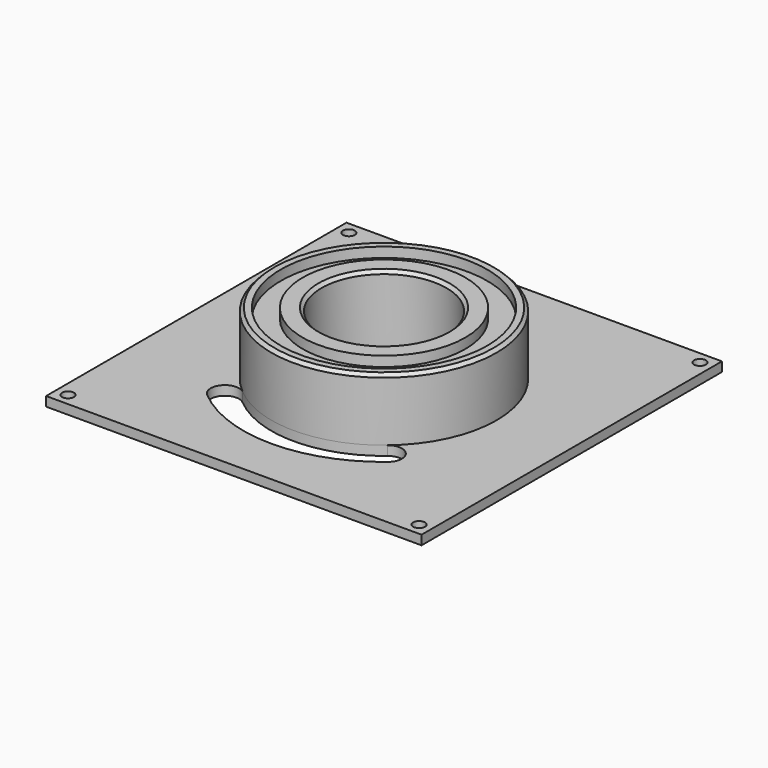
from build123d import *

# Parameters (mm, degrees)
SKETCH054_W             = 120
SKETCH054_H             = 120
PAD015_DEPTH            = 3
SKETCH065_R             = 1.9
POCKET034_DEPTH         = 3.001
SKETCH064_R             = 20
POCKET036_DEPTH         = 3.001
SKETCH058_R             = 36
PAD013_DEPTH            = 20
SKETCH055_R             = 20
POCKET035_DEPTH         = 20.001
SKETCH056_R             = 33
SKETCH056_R_2           = 26
POCKET037_DEPTH         = 3.2
CHAMFER003_SIZE         = 1
CHAMFER002_SIZE         = 1
POCKET042_DEPTH         = 3.001
BODY007_PLACEMENT_ANGLE = 90


with BuildPart() as part:
    # Sketch054 → Pad015 (new body)
    with BuildSketch(Plane.XZ):
        with Locations((60, 60)):
            Rectangle(SKETCH054_W, SKETCH054_H)
    extrude(amount=PAD015_DEPTH)

    # Sketch065 (on Face6 of Pad015) → Pocket034 (cut, through all)
    with BuildSketch(Plane.XZ.offset(3)):
        with Locations((3.9, 3.9)):
            Circle(SKETCH065_R)
        with Locations((116.1, 3.9)):
            Circle(SKETCH065_R)
        with Locations((116.1, 116.1)):
            Circle(SKETCH065_R)
        with Locations((3.9, 116.1)):
            Circle(SKETCH065_R)
    extrude(amount=-POCKET034_DEPTH, mode=Mode.SUBTRACT)

    # Sketch064 (on Face5 of Pocket034) → Pocket036 (cut, through all)
    with BuildSketch(Plane.XZ.offset(3)):
        with Locations((60, 60)):
            Circle(SKETCH064_R)
    extrude(amount=-POCKET036_DEPTH, mode=Mode.SUBTRACT)

    # Sketch058 (on Face5 of Pocket036) → Pad013 (join)
    with BuildSketch(Plane.XZ.offset(3)):
        with Locations((60, 60)):
            Circle(SKETCH058_R)
    extrude(amount=PAD013_DEPTH)

    # Sketch055 (on Face13 of Pad013) → Pocket035 (cut, through all)
    with BuildSketch(Plane(origin=(0, -3, 0), x_dir=(1, 0, 0), z_dir=(0, 1, 0))):
        with Locations((60, -60)):
            Circle(SKETCH055_R)
    extrude(amount=-POCKET035_DEPTH, mode=Mode.SUBTRACT)

    # Sketch056 (on Face14 of Pocket035) → Pocket037 (cut)
    with BuildSketch(Plane.XZ.offset(23)):
        with Locations((60, 60)):
            Circle(SKETCH056_R)
        with Locations((60, 60)):
            Circle(SKETCH056_R_2, mode=Mode.SUBTRACT)
    extrude(amount=-POCKET037_DEPTH, mode=Mode.SUBTRACT)

    # Chamfer003
    chamfer003_edges = [part.edges().sort_by_distance(p)[0] for p in [
        (40, -23, 60),
    ]]
    chamfer(chamfer003_edges, length=CHAMFER003_SIZE)

    # Chamfer002
    chamfer002_edges = [part.edges().sort_by_distance(p)[0] for p in [
        (24, -23, 60),
    ]]
    chamfer(chamfer002_edges, length=CHAMFER002_SIZE)

    # Sketch066 (on Face3 of Chamfer002) → Pocket042 (cut, through all)
    with BuildSketch(Plane.XZ.offset(3)):
        with BuildLine():
            ThreePointArc((36.859646, 32.4224), (60, 24), (83.140354, 32.4224))
            ThreePointArc((88.925456, 25.528011), (89.480105, 31.867761), (83.140354, 32.4224))
            ThreePointArc((31.074571, 25.527989), (60.000017, 15), (88.925456, 25.528011))
            ThreePointArc((36.859646, 32.4224), (30.519908, 31.867728), (31.074571, 25.527989))
        make_face()
    extrude(amount=-POCKET042_DEPTH, mode=Mode.SUBTRACT)


with BuildPart() as part_1:
    # Body007 placement: moved
    add(part.part.moved(Location((15, 15, 56))).rotate(Axis((15, 15, 56), (-1, 0, 0)), BODY007_PLACEMENT_ANGLE))


solid = part_1.part
